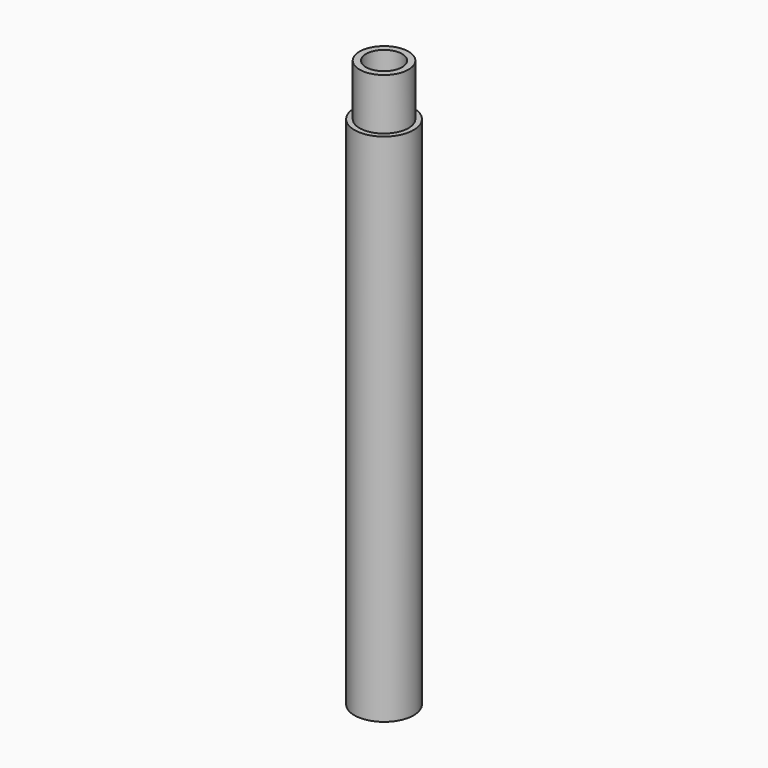
from build123d import *

# Parameters (mm, degrees)
F0_R          = 5.75
F0_R_2        = 4.75
F1_DEPTH      = 100
F2_R          = 4.75
F2_R_2        = 3.5
F3_DEPTH      = 10
F3_DEPTH_BACK = 10


with BuildPart() as f1:
    # F0 (on Top) → F1 (new body)
    with BuildSketch(Plane.XY):
        Circle(F0_R)
        Circle(F0_R_2, mode=Mode.SUBTRACT)
    extrude(amount=-F1_DEPTH)

    # F2 (on face) → F3 (join, two sides)
    with BuildSketch(Plane.XY) as f3_sk:
        Circle(F2_R)
        Circle(F2_R_2, mode=Mode.SUBTRACT)
    extrude(amount=F3_DEPTH)
    extrude(f3_sk.sketch, amount=-F3_DEPTH_BACK)


solid = f1.part
